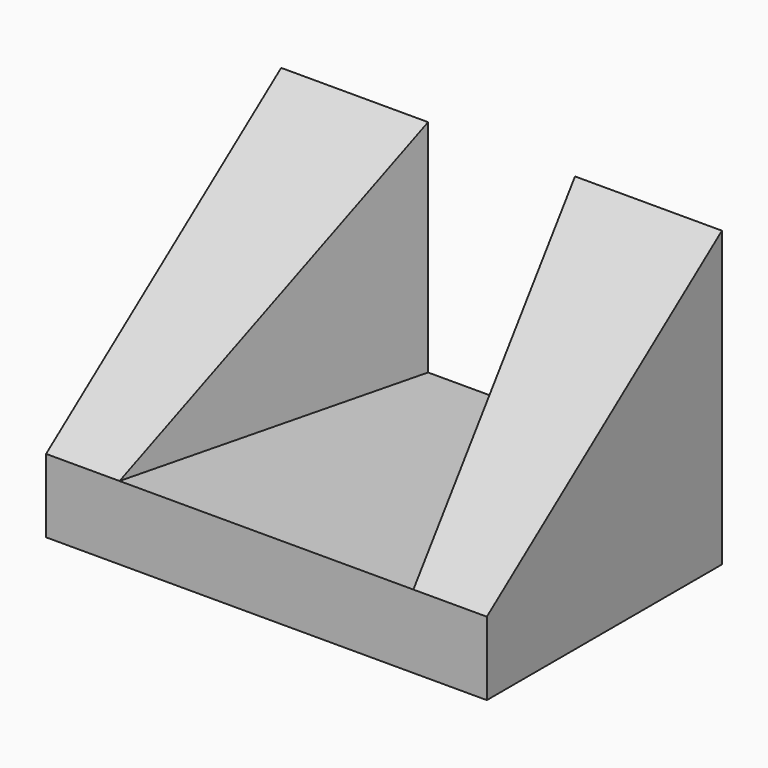
from build123d import *

# Parameters (mm, degrees)
F0_W     = 60
F0_H     = 40
F1_DEPTH = 10
F3_DEPTH = 30
F5_DEPTH = 60.001


with BuildPart() as f1:
    # F0 (on Top) → F1 (new body)
    with BuildSketch(Plane.XY):
        with Locations((30, 20)):
            Rectangle(F0_W, F0_H)
    extrude(amount=F1_DEPTH)

    # F2 (on face) → F3 (join)
    with BuildSketch(Plane.XY.offset(10)):
        Polygon((10, 0), (20, 40), (0, 40), (0, 0), align=None)
        Polygon((60, 0), (60, 40), (40, 40), (50, 0), align=None)
    extrude(amount=F3_DEPTH)

    # F4 (on face) → F5 (cut, through all)
    with BuildSketch(Plane.YZ.offset(60)):
        Polygon((0, 40), (0, 10), (40, 40), align=None)
    extrude(amount=-F5_DEPTH, mode=Mode.SUBTRACT)


solid = f1.part
